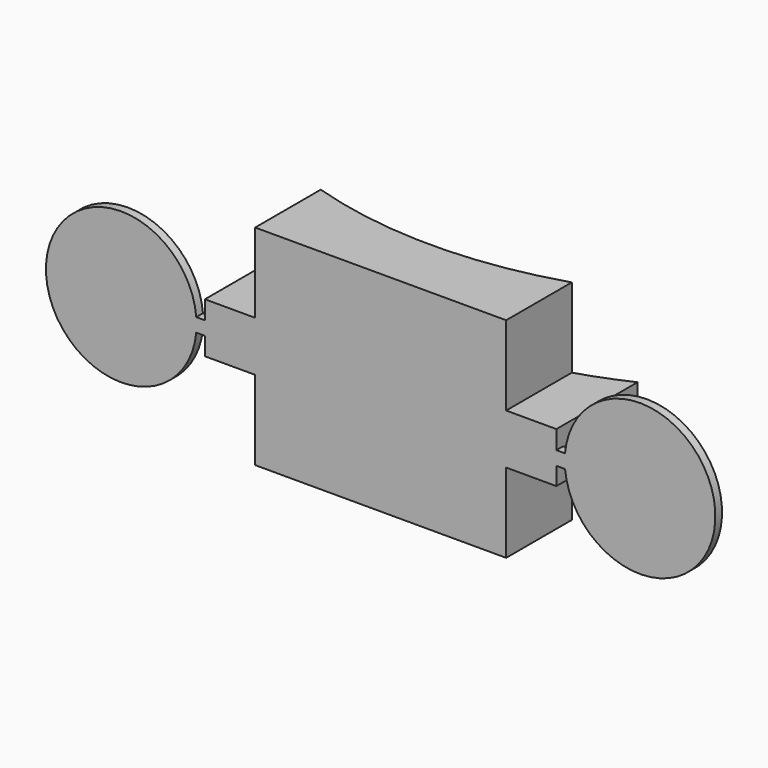
from build123d import *

# Parameters (mm, degrees)
F1_DEPTH  = 12.5
F3_DEPTH  = 25
F4_R      = 6.05
F5_DEPTH  = 55
F6_R      = 9.05
F7_DEPTH  = 52.5
F9_DEPTH  = 3
F11_DEPTH = 57.501
F13_DEPTH = 1


with BuildPart() as f1:
    # F0 (on Top) → F1 (new body, symmetric)
    with BuildSketch(Plane.XY):
        with BuildLine():
            ThreePointArc((50, 0), (0, -50), (-50, 0))
            Line((-50, 0), (-55, 0))
            ThreePointArc((-55, 0), (0, -55), (55, 0))
            Line((55, 0), (50, 0))
        make_face()
    extrude(amount=F1_DEPTH, both=True)

    # F2 (on face) → F3 (join)
    with BuildSketch(Plane.XY.offset(12.5)):
        with BuildLine():
            ThreePointArc((55, 0), (0, -55), (-55, 0))
            Line((-55, 0), (-55, -57.5))
            Line((-55, -57.5), (0, -57.5))
            Line((0, -57.5), (55, -57.5))
            Line((55, -57.5), (55, 0))
        make_face()
    extrude(amount=-F3_DEPTH)

    # F4 (on Front) → F5 (cut)
    with BuildSketch(Plane.XZ):
        Circle(F4_R)
    extrude(amount=F5_DEPTH, mode=Mode.SUBTRACT)

    # F6 (on Right) → F7 (cut, symmetric)
    with BuildSketch(Plane.YZ):
        with Locations((-11, 0)):
            Circle(F6_R)
    extrude(amount=F7_DEPTH, both=True, mode=Mode.SUBTRACT)

    # F8 (on face) → F9 (join)
    with BuildSketch(Plane.XZ.offset(57.5)):
        with BuildLine():
            Line((55, -1.825145), (56.187007, -1.825145))
            ThreePointArc((56.187007, -1.825145), (73.996764, 0.241309), (56.101841, 1.350101))
            Line((56.101841, 1.350101), (55, 1.350101))
            Line((55, 1.350101), (55, -1.825145))
        make_face()
        with BuildLine():
            Line((-55, 0.589209), (-56.019308, 0.589209))
            ThreePointArc((-56.019308, 0.589209), (-73.999691, -0.074534), (-56.010781, -0.440385))
            Line((-56.010781, -0.440385), (-55, -0.440385))
            Line((-55, -0.440385), (-55, 0.589209))
        make_face()
        with BuildLine():
            Line((26.665892, -12.5), (26.665892, -13.538735))
            ThreePointArc((26.665892, -13.538735), (27.491135, -31.499996), (28.35176, -13.540396))
            Line((28.35176, -13.540396), (28.35176, -12.5))
            Line((28.35176, -12.5), (26.665892, -12.5))
        make_face()
        with BuildLine():
            Line((-28.294771, -12.5), (-28.294771, -13.535161))
            ThreePointArc((-28.294771, -13.535161), (-27.521055, -31.499975), (-26.663293, -13.538978))
            Line((-26.663293, -13.538978), (-26.663293, -12.5))
            Line((-26.663293, -12.5), (-28.294771, -12.5))
        make_face()
        with BuildLine():
            Line((-26.327094, 12.5), (-26.327094, 13.576756))
            ThreePointArc((-26.327094, 13.576756), (-27.667739, 31.498437), (-28.339533, 13.539242))
            Line((-28.339533, 13.539242), (-28.339533, 12.5))
            Line((-28.339533, 12.5), (-26.327094, 12.5))
        make_face()
        with BuildLine():
            Line((28.639116, 12.5), (28.639116, 13.572379))
            ThreePointArc((28.639116, 13.572379), (27.368028, 31.499032), (26.623167, 13.542815))
            Line((26.623167, 13.542815), (26.623167, 12.5))
            Line((26.623167, 12.5), (28.639116, 12.5))
        make_face()
    extrude(amount=-F9_DEPTH)

    # F10 (on face) → F11 (cut, through all)
    with BuildSketch(Plane.XZ.offset(57.5)):
        Polygon((-15, 3), (-15, 12.5), (-15, 43.200534), (-80.149591, 43.200534), (-80.149591, -41.894257), (-15, -41.894257), (-15, -12.5), (-15, -3), (-21, -3), (-21, 0), (-21, 3), align=None)
        Polygon((15, 42.100117), (15, 12.5), (15, 3), (21, 3), (21, 0), (21, -3), (15, -3), (15, -12.5), (15, -47.119375), (79.776369, -47.119375), (79.776369, 42.100117), align=None)
    extrude(amount=-F11_DEPTH, mode=Mode.SUBTRACT)

    # F12 (on face) → F13 (join)
    with BuildSketch(Plane.XZ.offset(57.5)):
        with BuildLine():
            Line((-21, 0.785101), (-22.034309, 0.785101))
            ThreePointArc((-22.034309, 0.785101), (-39.999944, 0.031742), (-22.04007, -0.848323))
            Line((-22.04007, -0.848323), (-21, -0.848323))
            Line((-21, -0.848323), (-21, 0.785101))
        make_face()
        with BuildLine():
            Line((21, -0.86237), (22.041411, -0.86237))
            ThreePointArc((22.041411, -0.86237), (39.99991, 0.040222), (22.034061, 0.782262))
            Line((22.034061, 0.782262), (21, 0.782262))
            Line((21, 0.782262), (21, -0.86237))
        make_face()
    extrude(amount=-F13_DEPTH)


solid = f1.part
